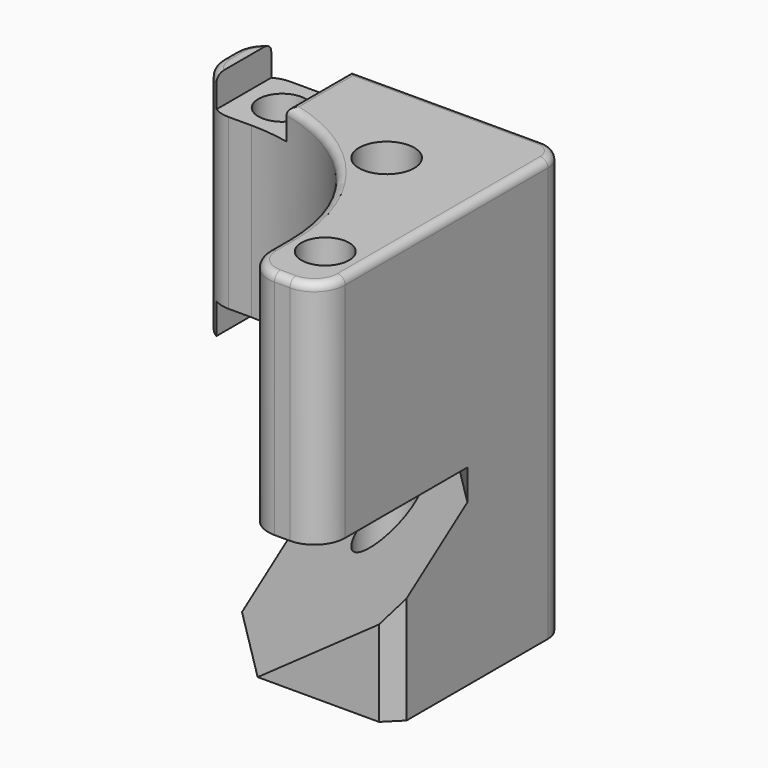
from build123d import *

# Parameters (mm, degrees)
F0_R     = 3.1
F0_R_2   = 3.6
F1_DEPTH = 30
F2_W     = 10
F2_H     = 4
F3_DEPTH = 40.001
F4_R     = 1
F5_R     = 3.6
F6_DEPTH = 25
F7_SIZE  = 2
F9_DEPTH = 46.6700476997


with BuildPart() as f1:
    # F0 (on Top) → F1 (new body)
    with BuildSketch(Plane.XY):
        with BuildLine():
            Line((16.4454364826, 19.4454364826), (-16.5545635174, 19.4454364826))
            ThreePointArc((-16.5545635174, 19.4454364826), (-19.3829906421, 18.2738636074), (-20.5545635174, 15.4454364826))
            Line((-20.5545635174, 15.4454364826), (-20.5545635174, 13.4454364826))
            ThreePointArc((-20.5545635174, 13.4454364826), (-19.3829906421, 10.6170093579), (-16.5545635174, 9.4454364826))
            Line((-16.5545635174, 9.4454364826), (-13.5545635174, 9.4454364826))
            ThreePointArc((-13.5545635174, 9.4454364826), (2.7088924499, 2.7088924499), (9.4454364826, -13.5545635174))
            Line((9.4454364826, -13.5545635174), (9.4454364826, -16.5545635174))
            ThreePointArc((9.4454364826, -16.5545635174), (10.6170093579, -19.3829906421), (13.4454364826, -20.5545635174))
            Line((13.4454364826, -20.5545635174), (15.4454364826, -20.5545635174))
            ThreePointArc((15.4454364826, -20.5545635174), (18.2738636074, -19.3829906421), (19.4454364826, -16.5545635174))
            Line((19.4454364826, -16.5545635174), (19.4454364826, 16.4454364826))
            ThreePointArc((19.4454364826, 16.4454364826), (18.5667568262, 18.5667568262), (16.4454364826, 19.4454364826))
        make_face()
        with Locations((14.4454364826, -13.5545635174)):
            Circle(F0_R, mode=Mode.SUBTRACT)
        with Locations((-13.5545635174, 14.4454364826)):
            Circle(F0_R, mode=Mode.SUBTRACT)
        with Locations((6.4454364826, 6.4454364826)):
            Circle(F0_R_2, mode=Mode.SUBTRACT)
    extrude(amount=F1_DEPTH)

    # F2 (on face) → F3 (cut, through all)
    with BuildSketch(Plane(origin=(0, 19.4454364826, 0), x_dir=(-1, 0, 0), z_dir=(0, 1, 0))):
        with Locations((13.5545635174, 28)):
            Rectangle(F2_W, F2_H)
        with Locations((13.5545635174, 2)):
            Rectangle(F2_W, F2_H)
    extrude(amount=-F3_DEPTH, mode=Mode.SUBTRACT)

    # F4
    f4_edges = [f1.edges().sort_by_distance(p)[0] for p in [
        (4.389795, 0.832931, 30),
        (-20.554564, 14.445436, 30),
        (-8.554564, 14.170409, 30),
    ]]
    fillet(f4_edges, radius=F4_R)

    # F5 (on face) → F6 (join)
    with BuildSketch(Plane(origin=(0, 0, 0), x_dir=(1, 0, 0), z_dir=(0, 0, -1))):
        with BuildLine():
            Line((-8.5545635174, 8.5545635174), (-8.5545635174, -19.4454364826))
            Line((-8.5545635174, -19.4454364826), (16.4454364826, -19.4454364826))
            ThreePointArc((16.4454364826, -19.4454364826), (18.5667568262, -18.5667568262), (19.4454364826, -16.4454364826))
            Line((19.4454364826, -16.4454364826), (19.4454364826, 8.5545635174))
            Line((19.4454364826, 8.5545635174), (-8.5545635174, 8.5545635174))
        make_face()
        with Locations((6.4454364826, -6.4454364826)):
            Circle(F5_R, mode=Mode.SUBTRACT)
    extrude(amount=F6_DEPTH)

    # F7
    f7_edges = [f1.edges().sort_by_distance(p)[0] for p in [
        (19.445436, -8.554564, -12.5),
        (-8.554564, 19.445436, -10.5),
    ]]
    chamfer(f7_edges, length=F7_SIZE)

    # F8 (on face) → F9 (cut, through all)
    with BuildSketch(Plane(origin=(13, -13, 0), x_dir=(0.7071067812, 0.7071067812, 0), z_dir=(0.7071067812, -0.7071067812, 0))):
        Polygon((16.1152236891, -4), (16.1152236891, 0), (-28.8847763109, 0), (-28.8847763109, -49), align=None)
    extrude(amount=-F9_DEPTH, mode=Mode.SUBTRACT)


solid = f1.part
